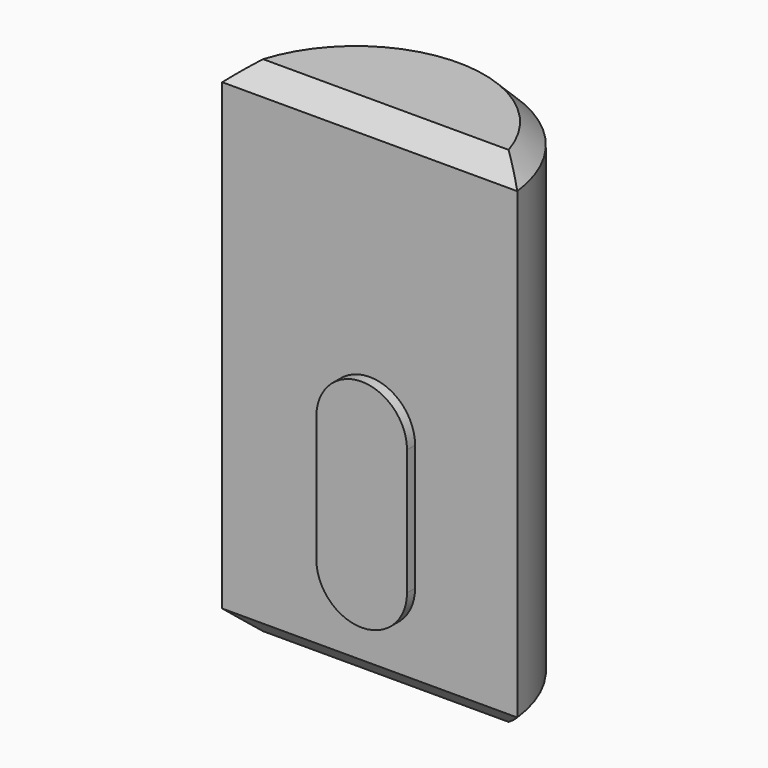
from build123d import *

# Parameters (mm, degrees)
PAD010_DEPTH    = 10
CHAMFER005_SIZE = 0.4
PAD011_DEPTH    = 0.2


with BuildPart() as body009:
    # Sketch023 → Pad010 (new body)
    with BuildSketch(Plane.XY):
        with BuildLine():
            ThreePointArc((-2.929164, -0.35), (0, -2.95), (2.929164, -0.35))
            Line((-2.929164, -0.35), (2.929164, -0.35))
        make_face()
    extrude(amount=-PAD010_DEPTH)

    # Chamfer005
    chamfer005_edges = [body009.edges().sort_by_distance(p)[0] for p in [
        (0, -2.95, 0),
        (0, -0.35, 0),
        (0, -2.95, -10),
        (0, -0.35, -10),
    ]]
    chamfer(chamfer005_edges, length=CHAMFER005_SIZE)

    # Sketch024 (on Face2 of Chamfer005) → Pad011 (join)
    with BuildSketch(Plane(origin=(0, -0.35, 0), x_dir=(-1, 0, 0), z_dir=(0, 1, 0))):
        with BuildLine():
            ThreePointArc((0.9, -5.5), (0, -4.6), (-0.9, -5.5))
            Line((-0.9, -5.5), (-0.9, -8))
            ThreePointArc((-0.9, -8), (0, -8.9), (0.9, -8))
            Line((0.9, -5.5), (0.9, -8))
        make_face()
    extrude(amount=PAD011_DEPTH)


with BuildPart() as holder2:
    # Part__Mirroring: instance of Body009
    add(body009.part.mirror(Plane(origin=(0, 0, 0), x_dir=(1, 0, 0), z_dir=(0, 1, 0))))


solid = holder2.part
